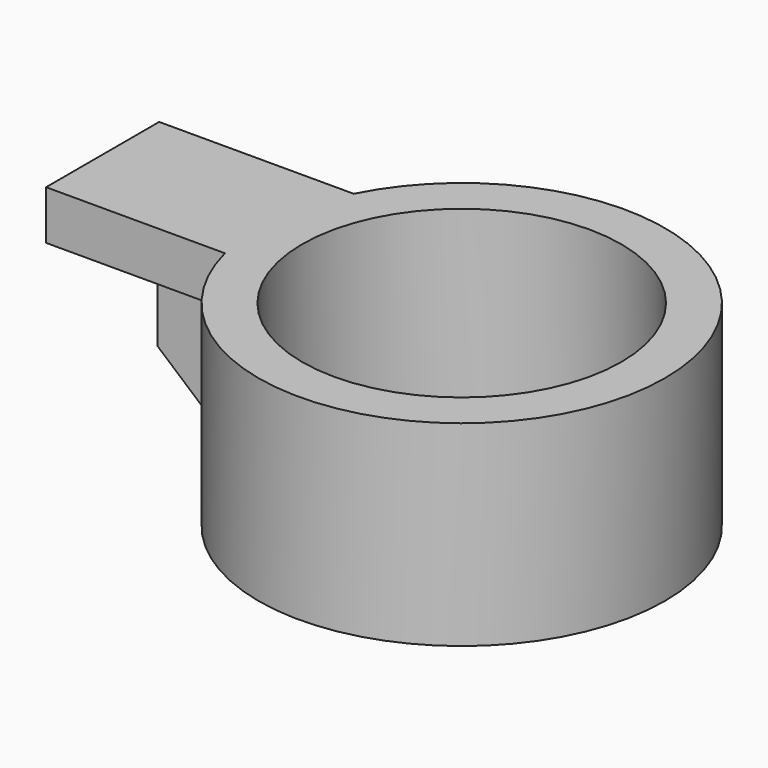
from build123d import *

# Parameters (mm, degrees)
F0_R     = 26.313439
F1_DEPTH = 25.4
F3_R     = 20.660218
F4_DEPTH = 25.401
F5_DEPTH = 6.35
F6_W     = 10.94192
F6_H     = 5.624315
F7_DEPTH = 18.796
F9_DEPTH = 29.034779


with BuildPart() as f1:
    # F0 (on Top) → F1 (new body)
    with BuildSketch(Plane.XY):
        with Locations((21.762719, -2.72034)):
            Circle(F0_R)
    extrude(amount=F1_DEPTH)

    # F3 (on face) → F4 (cut, through all)
    with BuildSketch(Plane(origin=(0, 0, 0), x_dir=(1, 0, 0), z_dir=(0, 0, -1))):
        with Locations((21.762719, 2.72034)):
            Circle(F3_R)
    extrude(amount=-F4_DEPTH, mode=Mode.SUBTRACT)

    # F2 (on face) → F5 (join)
    with BuildSketch(Plane.XY.offset(25.4)):
        with BuildLine():
            ThreePointArc((-3.75248, -9.15242), (-4.389986, 0.183635), (-1.719926, 9.15242))
            Line((-1.719926, 9.15242), (-26.911331, 9.15242))
            Line((-26.911331, 9.15242), (-26.911331, -9.15242))
            Line((-26.911331, -9.15242), (-3.75248, -9.15242))
        make_face()
    extrude(amount=-F5_DEPTH)

    # F6 (on face) → F7 (join)
    with BuildSketch(Plane(origin=(0, 0, 19.05), x_dir=(1, 0, 0), z_dir=(0, 0, -1))):
        with Locations((-9.860946, 2.812158)):
            Rectangle(F6_W, F6_H)
    extrude(amount=F7_DEPTH)

    # F8 (on face) → F9 (cut, through all)
    with BuildSketch(Plane(origin=(0, 0, 0), x_dir=(-1, 0, 0), z_dir=(0, 1, 0))):
        Polygon((15.331906, 0.254), (15.331906, 9.652), (4.409725, 0.254), align=None)
    extrude(amount=-F9_DEPTH, mode=Mode.SUBTRACT)


solid = f1.part
